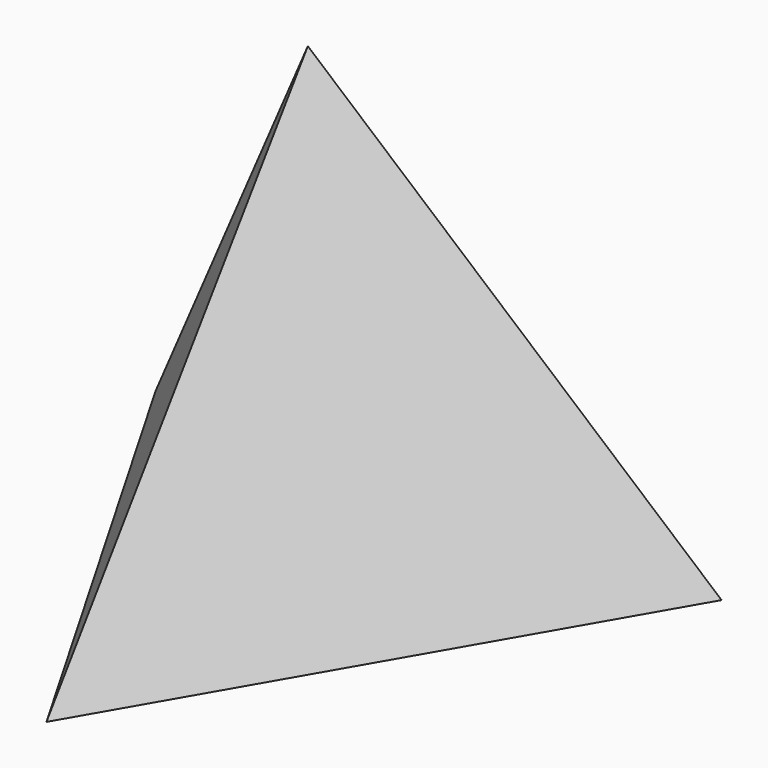
from build123d import *


with BuildPart() as f2:
    # F0 (on Top) → F2 section 0
    with BuildSketch(Plane.XY, mode=Mode.PRIVATE) as f2_s0:
        Polygon((20, 11.547005), (-20, 11.547005), (0, -23.094011), align=None)
    loft([f2_s0.sketch, Vertex(0, 0, 32.659863)])


solid = f2.part
